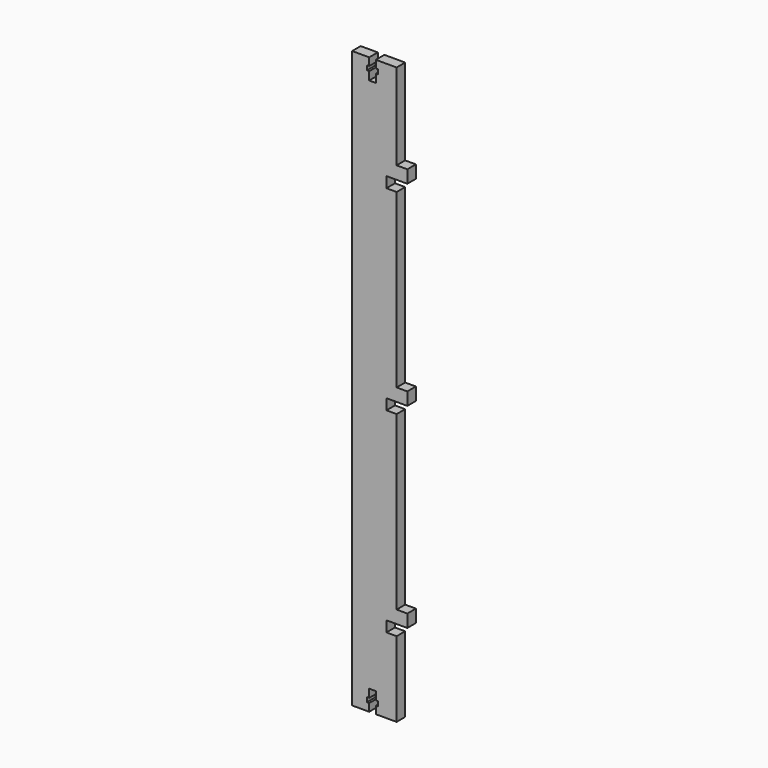
from build123d import *

# Parameters (mm, degrees)
F0_W     = 22.1742
F0_H     = 292.1
F1_DEPTH = 5.334
F2_W     = 5.334
F2_H     = 6.35
F3_DEPTH = 5.334
F5_DEPTH = 5.335
F6_W     = 5.08
F6_H     = 5.334
F7_DEPTH = 25.4
F8_W     = 22.1742
F8_H     = 2.54
F9_DEPTH = 25.4


with BuildPart() as f1:
    # F0 (on Front) → F1 (new body)
    with BuildSketch(Plane.XZ):
        with Locations((-23.465344, 68.295897)):
            Rectangle(F0_W, F0_H)
    extrude(amount=F1_DEPTH)

    # F2 (on face) → F3 (join)
    with BuildSketch(Plane.YZ.offset(-12.378244)):
        with Locations((-2.667, 165.704897)):
            Rectangle(F2_W, F2_H)
        with Locations((-2.667, 68.295897)):
            Rectangle(F2_W, F2_H)
        with Locations((-2.667, -29.113103)):
            Rectangle(F2_W, F2_H)
    extrude(amount=F3_DEPTH)

    # F4 (on face) → F5 (cut, through all)
    with BuildSketch(Plane.XZ.offset(5.334)):
        Polygon((-26.043444, -71.404103), (-26.043444, -77.754103), (-22.741444, -77.754103), (-22.741444, -71.404103), (-21.598444, -71.404103), (-21.598444, -69.118103), (-22.741444, -69.118103), (-22.741444, -65.054103), (-26.043444, -65.054103), (-26.043444, -69.118103), (-27.186444, -69.118103), (-27.186444, -71.404103), align=None)
        Polygon((-26.043444, 214.345897), (-26.043444, 207.995897), (-27.186444, 207.995897), (-27.186444, 205.709897), (-26.043444, 205.709897), (-26.043444, 201.645897), (-22.741444, 201.645897), (-22.741444, 205.709897), (-21.598444, 205.709897), (-21.598444, 207.995897), (-22.741444, 207.995897), (-22.741444, 214.345897), align=None)
    extrude(amount=-F5_DEPTH, mode=Mode.SUBTRACT)

    # F6 (on face) → F7 (cut)
    with BuildSketch(Plane.XZ.offset(5.334)):
        with Locations((-14.918244, 159.862897)):
            Rectangle(F6_W, F6_H)
        with Locations((-14.918244, 62.453897)):
            Rectangle(F6_W, F6_H)
        with Locations((-14.918244, -34.955103)):
            Rectangle(F6_W, F6_H)
    extrude(amount=-F7_DEPTH, mode=Mode.SUBTRACT)

    # F8 (on face) → F9 (cut)
    with BuildSketch(Plane.XZ.offset(5.334)):
        with Locations((-23.465344, 213.075897)):
            Rectangle(F8_W, F8_H)
        with Locations((-23.465344, -76.484103)):
            Rectangle(F8_W, F8_H)
    extrude(amount=-F9_DEPTH, mode=Mode.SUBTRACT)


solid = f1.part
